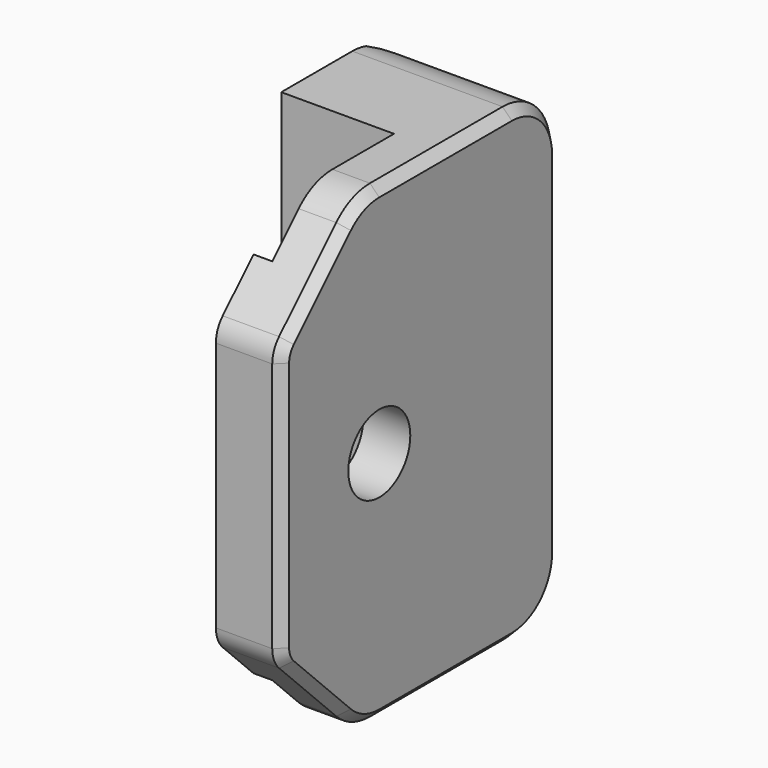
from build123d import *

# Parameters (mm, degrees)
SKETCH070_R     = 4.125
PAD025_DEPTH    = 25
PAD026_DEPTH    = 50
CHAMFER001_SIZE = 1


with BuildPart() as body030:
    # Sketch070 → Pad025 (new body, symmetric)
    with BuildSketch(Plane.YZ):
        with BuildLine():
            Line((12, 18.65), (12, -18.65))
            ThreePointArc((5.65, -25), (10.140128, -23.140128), (12, -18.65))
            Line((5.65, -25), (-12, -25))
            ThreePointArc((-16.490128, -23.140128), (-14.43004, -24.516635), (-12, -25))
            Line((-16.490128, -23.140128), (-24.092031, -15.538225))
            ThreePointArc((-25, -13.346194), (-24.764027, -14.532513), (-24.092031, -15.538225))
            Line((-25, 13.346194), (-25, -13.346194))
            ThreePointArc((-24.092031, 15.538225), (-24.764027, 14.532513), (-25, 13.346194))
            Line((-24.092031, 15.538225), (-16.490128, 23.140128))
            ThreePointArc((-12, 25), (-14.43004, 24.516635), (-16.490128, 23.140128))
            Line((-12, 25), (5.65, 25))
            ThreePointArc((12, 18.65), (10.140128, 23.140128), (5.65, 25))
        make_face()
        with Locations((-12, 0)):
            Circle(SKETCH070_R, mode=Mode.SUBTRACT)
    extrude(amount=PAD025_DEPTH, both=True)


with BuildPart() as body031:
    # Sketch072 → Pad026 (new body, symmetric)
    with BuildSketch(Plane.XY):
        Polygon((7, 12), (-5.514719, 12), (-10, 7.514719), (-10, -3.8), (2, -3.8), (2, -20), (0, -20), (0, -40), (7, -40), align=None)
    extrude(amount=PAD026_DEPTH, both=True)

    # Boolean001: intersect Body030
    add(body030.part, mode=Mode.INTERSECT)

    # Chamfer001
    chamfer001_edges = [body031.edges().sort_by_distance(p)[0] for p in [
        (7, -3.175, 25),
    ]]
    chamfer(chamfer001_edges, length=CHAMFER001_SIZE)


solid = body031.part
